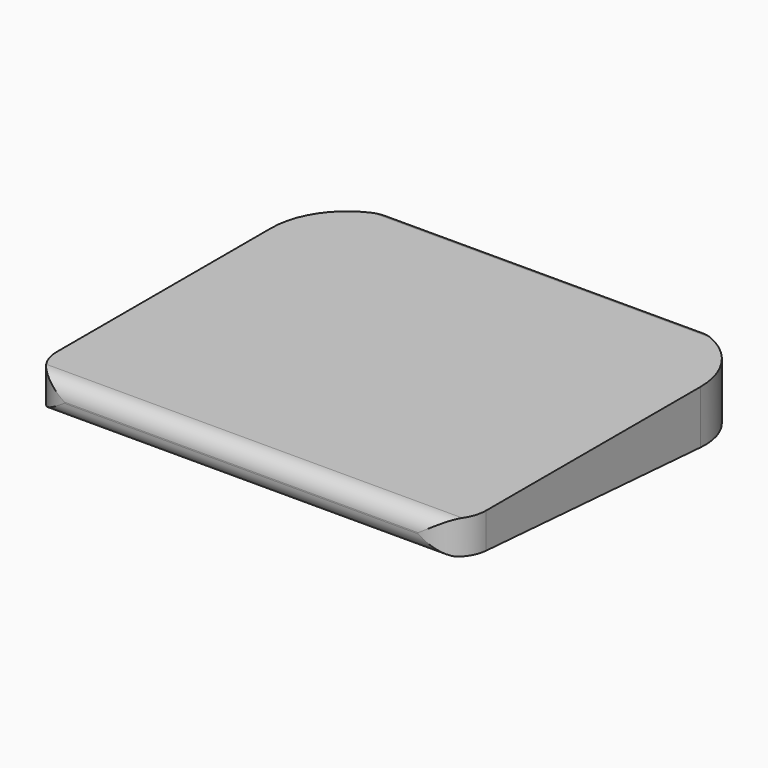
from build123d import *

# Parameters (mm, degrees)
F1_DEPTH = 144
F3_DEPTH = 25.4


with BuildPart() as f1:
    # F0 (on Right) → F1 (new body)
    with BuildSketch(Plane.YZ):
        with BuildLine():
            ThreePointArc((0, -2), (-0.5857864376, -0.5857864376), (-2, 0))
            Line((-2, 0), (-122.5, 0))
            ThreePointArc((-122.5, 0), (-126.3890872965, -1.6109127035), (-128, -5.5))
            Line((-128, -5.5), (-128, -5.8571312877))
            ThreePointArc((-128, -5.8571312877), (-126.5173280927, -9.6136023704), (-122.8687000016, -11.3447592186))
            Line((-122.8687000016, -11.3447592186), (-2.1340727279, -19.4566169886))
            ThreePointArc((-2.1340727279, -19.4566169886), (-0.6340105154, -18.921962502), (0, -17.4611159228))
            Line((0, -17.4611159228), (0, -2))
        make_face()
    extrude(amount=-F1_DEPTH)

    # F2 (on face) → F3 (intersect)
    with BuildSketch(Plane.XY):
        with BuildLine():
            ThreePointArc((-118.6, 0), (-136.5605122421, -7.4394877579), (-144, -25.4))
            Line((-144, -25.4), (-144, -115.3))
            ThreePointArc((-144, -115.3), (-140.2802561211, -124.2802561211), (-131.3, -128))
            Line((-131.3, -128), (-12.7, -128))
            ThreePointArc((-12.7, -128), (-3.7197438789, -124.2802561211), (0, -115.3))
            Line((0, -115.3), (0, -25.4))
            ThreePointArc((0, -25.4), (-7.4394877579, -7.4394877579), (-25.4, 0))
            Line((-25.4, 0), (-118.6, 0))
        make_face()
    extrude(amount=-F3_DEPTH, mode=Mode.INTERSECT)


solid = f1.part
